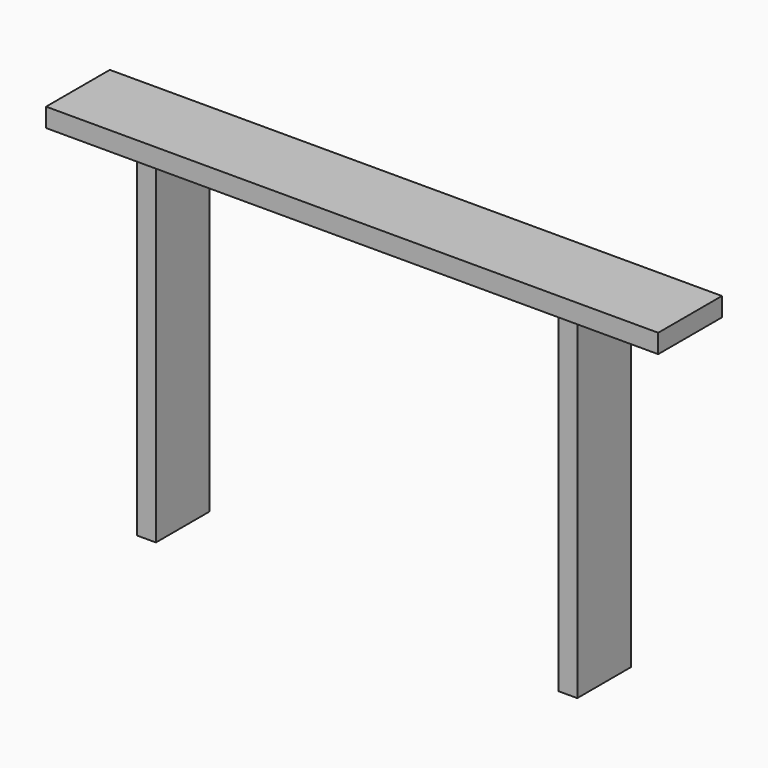
from build123d import *

# Parameters (mm, degrees)
F0_W     = 1460
F0_H     = 190
F1_DEPTH = 45
F2_W     = 45
F2_H     = 160
F3_DEPTH = 795


with BuildPart() as f1:
    # F0 (on Top) → F1 (new body)
    with BuildSketch(Plane.XY):
        Rectangle(F0_W, F0_H)
    extrude(amount=F1_DEPTH)

    # F2 (on face) → F3 (join)
    with BuildSketch(Plane(origin=(0, 0, 0), x_dir=(1, 0, 0), z_dir=(0, 0, -1))):
        with Locations((-502.5, 0)):
            Rectangle(F2_W, F2_H)
        with Locations((502.5, 0)):
            Rectangle(F2_W, F2_H)
    extrude(amount=F3_DEPTH)


solid = f1.part
